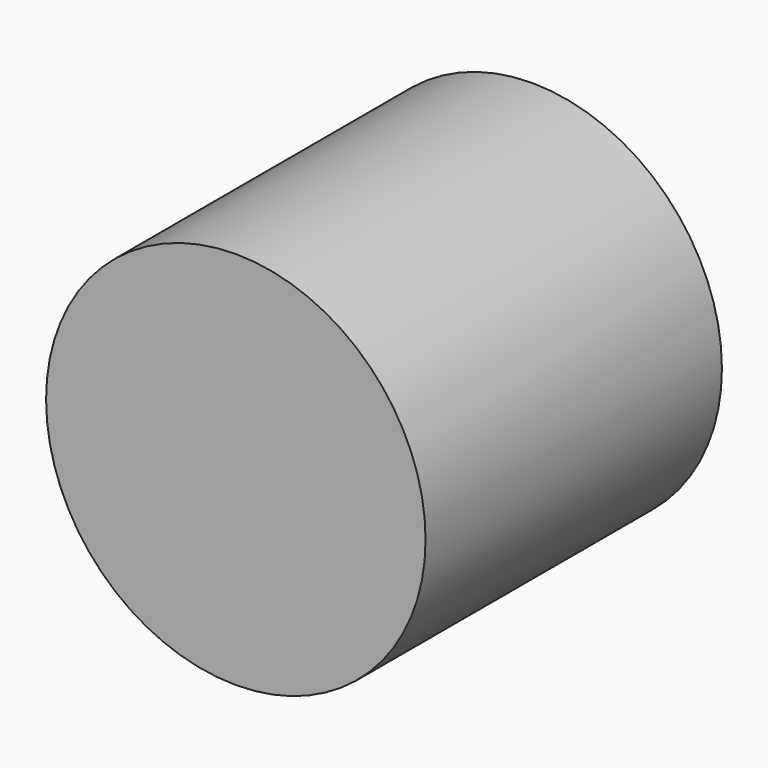
from build123d import *


with BuildPart() as f1:
    # F0 (on Top) → F1 (revolve)
    with BuildSketch(Plane.XY):
        with BuildLine():
            ThreePointArc((14, -2.665412), (7.125735, -0.672284), (0, 0))
            Line((0, 0), (0, -30))
            Line((0, -30), (14, -30))
            Line((14, -30), (14, -2.665412))
        make_face()
    revolve(axis=Axis((0, 11.341193, 0), (0, 1, 0)))


solid = f1.part
